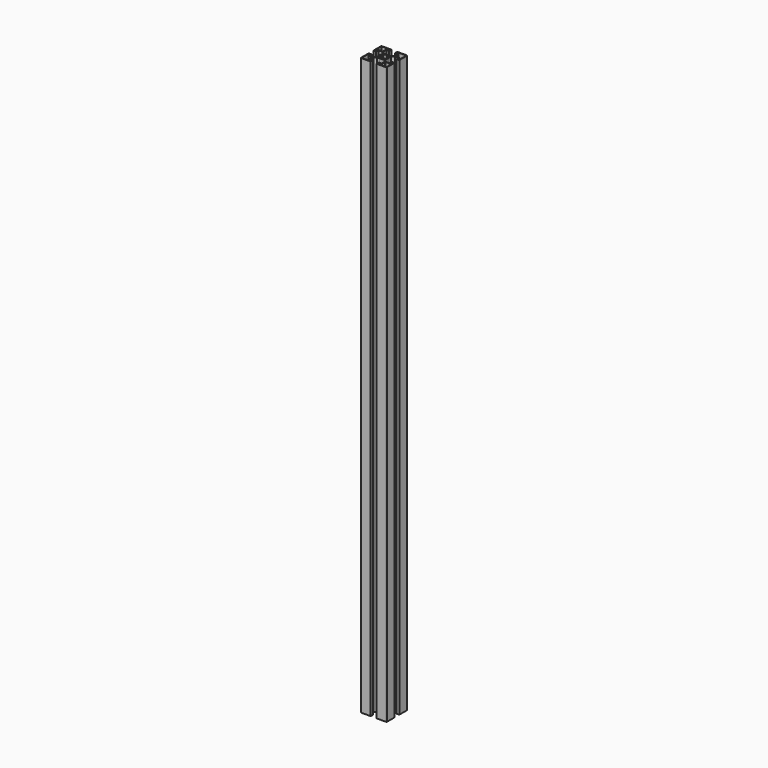
from build123d import *

# Parameters (mm, degrees)
F1_DEPTH = 500


with BuildPart() as f1:
    # F0 (on Top) → F1 (new body, symmetric)
    with BuildSketch(Plane.XY):
        with BuildLine():
            Line((-5, 17.5), (-5, 22.5))
            Line((-5, 22.5), (-21.5, 22.5))
            ThreePointArc((-21.5, 22.5), (-22.207107, 22.207107), (-22.5, 21.5))
            Line((-22.5, 21.5), (-22.5, 5))
            Line((-22.5, 5), (-17.5, 5))
            Line((-17.5, 5), (-17.5, 10))
            Line((-17.5, 10), (-10.707107, 10))
            Line((-10.707107, 10), (-7.25, 6.542893))
            Line((-7.25, 6.542893), (-7.25, 1.920286))
            ThreePointArc((-7.25, 1.920286), (-7.437237, 0.968246), (-7.5, 0))
            Line((-7.5, 0), (-5, 0))
            ThreePointArc((-5, 0), (-4.975924, 0.490086), (-4.903926, 0.975452))
            Line((-4.903926, 0.975452), (-6.375104, 1.268087))
            ThreePointArc((-6.375104, 1.268087), (-6.005217, 2.487442), (-5.404552, 3.611207))
            Line((-5.404552, 3.611207), (-4.157348, 2.777851))
            ThreePointArc((-4.157348, 2.777851), (-3.535534, 3.535534), (-2.777851, 4.157348))
            Line((-2.777851, 4.157348), (-3.611207, 5.404552))
            ThreePointArc((-3.611207, 5.404552), (-2.487442, 6.005217), (-1.268087, 6.375104))
            Line((-1.268087, 6.375104), (-0.975452, 4.903926))
            ThreePointArc((-0.975452, 4.903926), (0, 5), (0.975452, 4.903926))
            Line((0.975452, 4.903926), (1.268087, 6.375104))
            ThreePointArc((1.268087, 6.375104), (2.487442, 6.005217), (3.611207, 5.404552))
            Line((3.611207, 5.404552), (2.777851, 4.157348))
            ThreePointArc((2.777851, 4.157348), (3.535534, 3.535534), (4.157348, 2.777851))
            Line((4.157348, 2.777851), (5.404552, 3.611207))
            ThreePointArc((5.404552, 3.611207), (6.005217, 2.487442), (6.375104, 1.268087))
            Line((6.375104, 1.268087), (4.903926, 0.975452))
            ThreePointArc((4.903926, 0.975452), (4.975924, 0.490086), (5, 0))
            Line((5, 0), (7.5, 0))
            ThreePointArc((7.5, 0), (7.437237, 0.968246), (7.25, 1.920286))
            Line((7.25, 1.920286), (7.25, 6.542893))
            Line((7.25, 6.542893), (10.707107, 10))
            Line((10.707107, 10), (17.5, 10))
            Line((17.5, 10), (17.5, 5))
            Line((17.5, 5), (22.5, 5))
            Line((22.5, 5), (22.5, 21.5))
            ThreePointArc((22.5, 21.5), (22.207107, 22.207107), (21.5, 22.5))
            Line((21.5, 22.5), (5, 22.5))
            Line((5, 22.5), (5, 17.5))
            Line((5, 17.5), (10, 17.5))
            Line((10, 17.5), (10, 10.707107))
            Line((10, 10.707107), (6.542893, 7.25))
            Line((6.542893, 7.25), (1.920286, 7.25))
            ThreePointArc((1.920286, 7.25), (1.69256, 7.30652), (1.463177, 7.35589))
            ThreePointArc((1.463177, 7.35589), (-0.234607, 7.49633), (-1.920286, 7.25))
            Line((-1.920286, 7.25), (-6.542893, 7.25))
            Line((-6.542893, 7.25), (-9.633317, 10.707034))
            Line((-9.633317, 10.707034), (-9.633317, 17.508465))
            Line((-9.633317, 17.508465), (-5, 17.5))
        make_face()
        with BuildLine():
            ThreePointArc((-21, 6), (-21.353553, 6.146447), (-21.5, 6.5))
            Line((-21.5, 6.5), (-21.5, 21))
            ThreePointArc((-21.5, 21), (-21.353553, 21.353553), (-21, 21.5))
            Line((-21, 21.5), (-6.5, 21.5))
            ThreePointArc((-6.5, 21.5), (-6.146447, 21.353553), (-6, 21))
            Line((-6, 21), (-6, 19.035264))
            ThreePointArc((-6, 19.035264), (-6.147399, 18.68076), (-6.502691, 18.535271))
            Line((-6.502691, 18.535271), (-10.497309, 18.556773))
            ThreePointArc((-10.497309, 18.556773), (-10.852601, 18.411284), (-11, 18.05678))
            Line((-11, 18.05678), (-11, 11.5))
            ThreePointArc((-11, 11.5), (-11.146447, 11.146447), (-11.5, 11))
            Line((-11.5, 11), (-18, 11))
            ThreePointArc((-18, 11), (-18.353553, 10.853553), (-18.5, 10.5))
            Line((-18.5, 10.5), (-18.5, 6.5))
            ThreePointArc((-18.5, 6.5), (-18.646447, 6.146447), (-19, 6))
            Line((-19, 6), (-21, 6))
        make_face(mode=Mode.SUBTRACT)
        with BuildLine():
            Line((21.5, 21), (21.5, 6.5))
            ThreePointArc((21.5, 6.5), (21.353553, 6.146447), (21, 6))
            Line((21, 6), (19, 6))
            ThreePointArc((19, 6), (18.646447, 6.146447), (18.5, 6.5))
            Line((18.5, 6.5), (18.5, 10.5))
            ThreePointArc((18.5, 10.5), (18.353553, 10.853553), (18, 11))
            Line((18, 11), (11.5, 11))
            ThreePointArc((11.5, 11), (11.146447, 11.146447), (11, 11.5))
            Line((11, 11.5), (11, 18))
            ThreePointArc((11, 18), (10.853553, 18.353553), (10.5, 18.5))
            Line((10.5, 18.5), (6.5, 18.5))
            ThreePointArc((6.5, 18.5), (6.146447, 18.646447), (6, 19))
            Line((6, 19), (6, 21))
            ThreePointArc((6, 21), (6.146447, 21.353553), (6.5, 21.5))
            Line((6.5, 21.5), (21, 21.5))
            ThreePointArc((21, 21.5), (21.353553, 21.353553), (21.5, 21))
        make_face(mode=Mode.SUBTRACT)
        with BuildLine():
            Line((-5, 0), (-7.5, 0))
            ThreePointArc((-7.5, 0), (-7.437237, -0.968246), (-7.25, -1.920286))
            Line((-7.25, -1.920286), (-7.25, -6.542893))
            Line((-7.25, -6.542893), (-10.707107, -10))
            Line((-10.707107, -10), (-17.5, -10))
            Line((-17.5, -10), (-17.5, -5))
            Line((-17.5, -5), (-22.5, -5))
            Line((-22.5, -5), (-22.5, -21.5))
            ThreePointArc((-22.5, -21.5), (-22.207107, -22.207107), (-21.5, -22.5))
            Line((-21.5, -22.5), (-5, -22.5))
            Line((-5, -22.5), (-5, -17.5))
            Line((-5, -17.5), (-10, -17.5))
            Line((-10, -17.5), (-10, -10.707107))
            Line((-10, -10.707107), (-6.542893, -7.25))
            Line((-6.542893, -7.25), (-1.920286, -7.25))
            ThreePointArc((-1.920286, -7.25), (0, -7.5), (1.920286, -7.25))
            Line((1.920286, -7.25), (6.542896, -7.25))
            Line((6.542896, -7.25), (10.000003, -10.707107))
            Line((10.000003, -10.707107), (10.000003, -17.5))
            Line((10.000003, -17.5), (5.000003, -17.5))
            Line((5.000003, -17.5), (5.000003, -22.5))
            Line((5.000003, -22.5), (21.500003, -22.5))
            ThreePointArc((21.500003, -22.5), (22.20711, -22.207107), (22.500003, -21.5))
            Line((22.500003, -21.5), (22.500003, -5))
            Line((22.500003, -5), (17.5, -5))
            Line((17.5, -5), (17.5, -10))
            Line((17.5, -10), (10.707107, -10))
            Line((10.707107, -10), (7.25, -6.542893))
            Line((7.25, -6.542893), (7.25, -1.920286))
            ThreePointArc((7.25, -1.920286), (7.437237, -0.968246), (7.5, 0))
            Line((7.5, 0), (5, 0))
            ThreePointArc((5, 0), (4.975924, -0.490086), (4.903926, -0.975452))
            Line((4.903926, -0.975452), (6.375104, -1.268087))
            ThreePointArc((6.375104, -1.268087), (6.005217, -2.487442), (5.404552, -3.611207))
            Line((5.404552, -3.611207), (4.157348, -2.777851))
            ThreePointArc((4.157348, -2.777851), (3.535534, -3.535534), (2.777851, -4.157348))
            Line((2.777851, -4.157348), (3.611207, -5.404552))
            ThreePointArc((3.611207, -5.404552), (2.487442, -6.005217), (1.268087, -6.375104))
            Line((1.268087, -6.375104), (0.975452, -4.903926))
            ThreePointArc((0.975452, -4.903926), (0, -5), (-0.975452, -4.903926))
            Line((-0.975452, -4.903926), (-1.268087, -6.375104))
            ThreePointArc((-1.268087, -6.375104), (-2.487442, -6.005217), (-3.611207, -5.404552))
            Line((-3.611207, -5.404552), (-2.777851, -4.157348))
            ThreePointArc((-2.777851, -4.157348), (-3.535534, -3.535534), (-4.157348, -2.777851))
            Line((-4.157348, -2.777851), (-5.404552, -3.611207))
            ThreePointArc((-5.404552, -3.611207), (-5.924471, -2.674068), (-6.283337, -1.664236))
            Line((-6.283337, -1.664236), (-4.808405, -1.370853))
            ThreePointArc((-4.808405, -1.370853), (-4.95187, -0.692089), (-5, 0))
        make_face()
        with BuildLine():
            Line((-21.5, -21), (-21.5, -6.5))
            ThreePointArc((-21.5, -6.5), (-21.353553, -6.146447), (-21, -6))
            Line((-21, -6), (-19, -6))
            ThreePointArc((-19, -6), (-18.646447, -6.146447), (-18.5, -6.5))
            Line((-18.5, -6.5), (-18.5, -10.5))
            ThreePointArc((-18.5, -10.5), (-18.353553, -10.853553), (-18, -11))
            Line((-18, -11), (-11.5, -11))
            ThreePointArc((-11.5, -11), (-11.146447, -11.146447), (-11, -11.5))
            Line((-11, -11.5), (-11, -18))
            ThreePointArc((-11, -18), (-10.853553, -18.353553), (-10.5, -18.5))
            Line((-10.5, -18.5), (-6.5, -18.5))
            ThreePointArc((-6.5, -18.5), (-6.146447, -18.646447), (-6, -19))
            Line((-6, -19), (-6, -21))
            ThreePointArc((-6, -21), (-6.146447, -21.353553), (-6.5, -21.5))
            Line((-6.5, -21.5), (-21, -21.5))
            ThreePointArc((-21, -21.5), (-21.353553, -21.353553), (-21.5, -21))
        make_face(mode=Mode.SUBTRACT)
        with BuildLine():
            Line((21, -21.5), (6.5, -21.5))
            ThreePointArc((6.5, -21.5), (6.146447, -21.353553), (6, -21))
            Line((6, -21), (6, -19))
            ThreePointArc((6, -19), (6.146447, -18.646447), (6.5, -18.5))
            Line((6.5, -18.5), (10.5, -18.5))
            ThreePointArc((10.5, -18.5), (10.853553, -18.353553), (11, -18))
            Line((11, -18), (11, -11.5))
            ThreePointArc((11, -11.5), (11.146447, -11.146447), (11.5, -11))
            Line((11.5, -11), (18, -11))
            ThreePointArc((18, -11), (18.353553, -10.853553), (18.5, -10.5))
            Line((18.5, -10.5), (18.5, -6.5))
            ThreePointArc((18.5, -6.5), (18.646447, -6.146447), (19, -6))
            Line((19, -6), (21, -6))
            ThreePointArc((21, -6), (21.353553, -6.146447), (21.5, -6.5))
            Line((21.5, -6.5), (21.5, -21))
            ThreePointArc((21.5, -21), (21.353553, -21.353553), (21, -21.5))
        make_face(mode=Mode.SUBTRACT)
    extrude(amount=F1_DEPTH, both=True)


solid = f1.part
